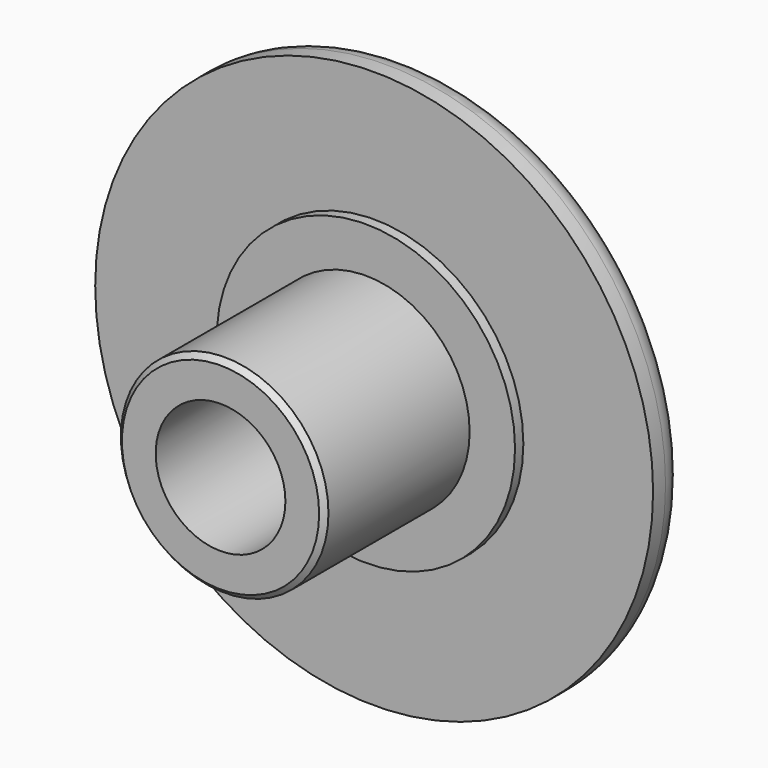
from build123d import *

# Parameters (mm, degrees)
F2_SIZE = 0.2
F3_R    = 1


with BuildPart() as f1:
    # F0 (on Top) → F1 (revolve)
    with BuildSketch(Plane.XY):
        Polygon((2.5, 6), (2.5, 0), (4, 0), (4, 7), (5.75, 7), (5.75, 7.4), (10.75, 7.4), (10.75, 9), (0, 9), (0, 6), align=None)
    revolve(axis=Axis((0, 4.843669, 0), (0, -1, 0)))

    # F2
    f2_edges = [f1.edges().sort_by_distance(p)[0] for p in [
        (-4, 0, 0),
    ]]
    chamfer(f2_edges, length=F2_SIZE)

    # F3
    f3_edges = [f1.edges().sort_by_distance(p)[0] for p in [
        (-10.75, 9, 0),
    ]]
    fillet(f3_edges, radius=F3_R)


solid = f1.part
